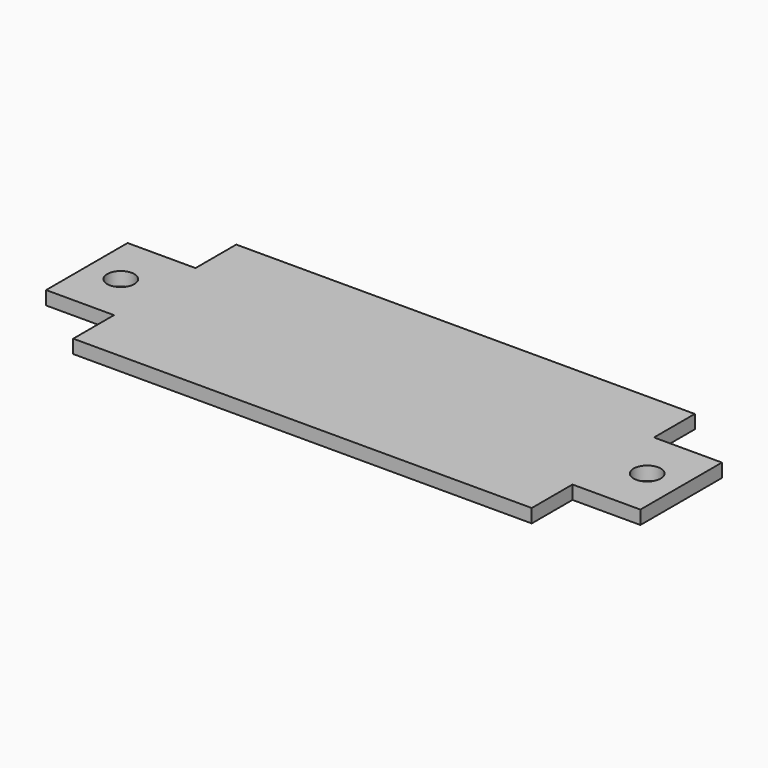
from build123d import *

# Parameters (mm, degrees)
F0_W     = 10
F0_H     = 15
F0_R     = 2
F1_DEPTH = 2


with BuildPart() as f1:
    # F0 (on Top) → F1 (new body)
    with BuildSketch(Plane.XY):
        Polygon((-33.75, -15), (33.75, -15), (33.75, -7.5), (33.75, 7.5), (33.75, 15), (-33.75, 15), (-33.75, 7.5), (-33.75, -7.5), align=None)
        with Locations((-38.75, 0)):
            Rectangle(F0_W, F0_H)
        with Locations((-38.75, 0)):
            Circle(F0_R, mode=Mode.SUBTRACT)
        with Locations((38.75, 0)):
            Rectangle(F0_W, F0_H)
        with Locations((38.75, 0)):
            Circle(F0_R, mode=Mode.SUBTRACT)
    extrude(amount=F1_DEPTH)


solid = f1.part
